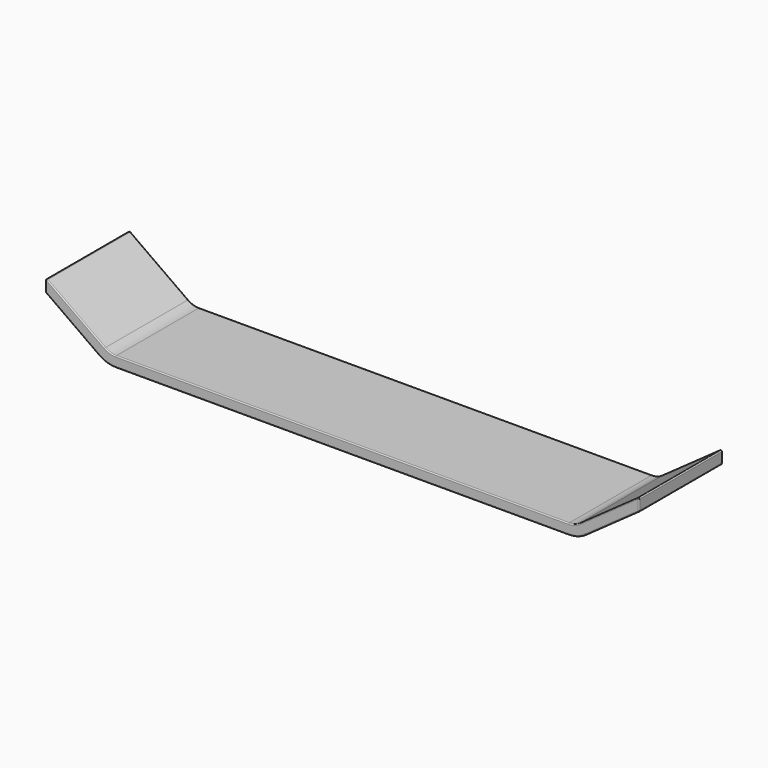
from build123d import *

# Parameters (mm, degrees)
F1_DEPTH = 25.4
F2_R     = 0.254


with BuildPart() as f1:
    # F0 (on Front) → F1 (new body)
    with BuildSketch(Plane.XZ):
        with BuildLine():
            Line((-55.082276, 0), (0, 0))
            Line((0, 0), (55.082276, 0))
            ThreePointArc((55.082276, 0), (57.261076, 0.339383), (59.233428, 1.325374))
            Line((59.233428, 1.325374), (72.197067, 10.543036))
            Line((72.197067, 10.543036), (72.197067, 13.659666))
            Line((72.197067, 13.659666), (57.761536, 3.39543))
            ThreePointArc((57.761536, 3.39543), (56.48853, 2.759046), (55.082276, 2.54))
            Line((55.082276, 2.54), (0, 2.54))
            Line((0, 2.54), (-55.082276, 2.54))
            ThreePointArc((-55.082276, 2.54), (-56.48853, 2.759046), (-57.761536, 3.39543))
            Line((-57.761536, 3.39543), (-72.197067, 13.659666))
            Line((-72.197067, 13.659666), (-72.197067, 10.543036))
            Line((-72.197067, 10.543036), (-59.233428, 1.325374))
            ThreePointArc((-59.233428, 1.325374), (-57.261076, 0.339383), (-55.082276, 0))
        make_face()
    extrude(amount=F1_DEPTH)

    # F2
    f2_edges = [f1.edges().sort_by_distance(p)[0] for p in [
        (-56.48853, 0, 2.759046),
        (-64.979301, 0, 8.527548),
        (-72.197067, 0, 12.101351),
        (-65.715248, 0, 5.934205),
        (-57.261076, 0, 0.339383),
        (0, 0, 0),
        (57.261076, 0, 0.339383),
        (65.715248, 0, 5.934205),
        (72.197067, 0, 12.101351),
        (64.979301, 0, 8.527548),
        (56.48853, 0, 2.759046),
        (0, 0, 2.54),
        (-64.979301, -25.4, 8.527548),
        (0, -25.4, 2.54),
        (-55.082276, -12.7, 2.54),
        (-72.197067, -12.7, 13.659666),
        (-72.197067, -12.7, 10.543036),
        (-72.197067, -25.4, 12.101351),
        (-57.761536, -12.7, 3.39543),
        (-56.48853, -25.4, 2.759046),
        (72.197067, -12.7, 13.659666),
        (57.761536, -12.7, 3.39543),
        (64.979301, -25.4, 8.527548),
        (72.197067, -12.7, 10.543036),
        (72.197067, -25.4, 12.101351),
        (55.082276, -12.7, 0),
        (59.233428, -12.7, 1.325374),
        (57.261076, -25.4, 0.339383),
        (-59.233428, -12.7, 1.325374),
        (-65.715248, -25.4, 5.934205),
        (-55.082276, -12.7, 0),
        (-57.261076, -25.4, 0.339383),
        (0, -25.4, 0),
        (55.082276, -12.7, 2.54),
        (65.715248, -25.4, 5.934205),
        (56.48853, -25.4, 2.759046),
    ]]
    fillet(f2_edges, radius=F2_R)


solid = f1.part
